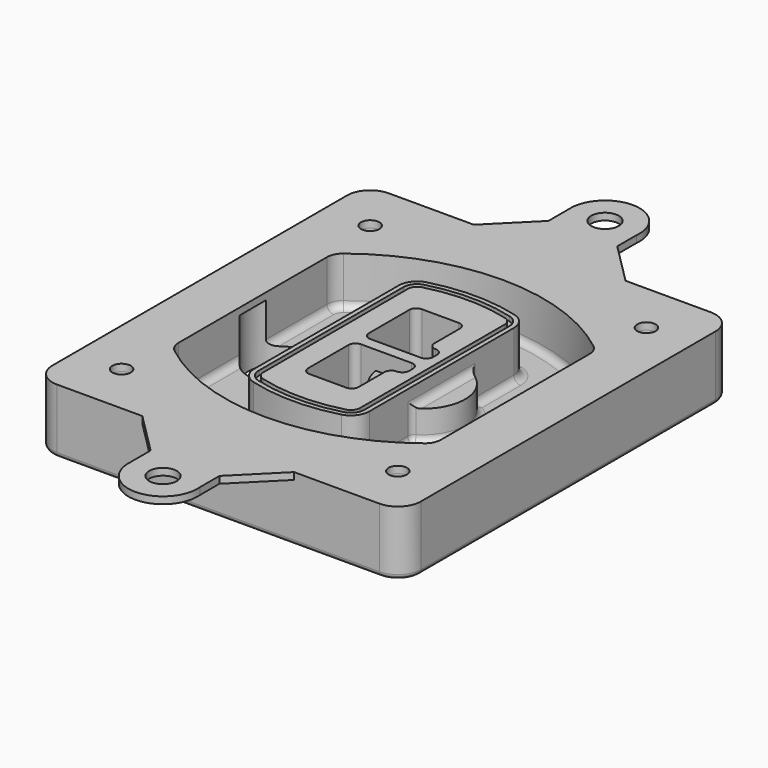
from build123d import *

# Parameters (mm, degrees)
F0_R      = 4
F1_DEPTH  = 25
F2_DEPTH  = 3
F3_DEPTH  = 18
F5_DEPTH  = 21
F6_DEPTH  = 2
F8_DEPTH  = 20
F9_DEPTH  = 16
F10_DEPTH = 25
F7_R      = 6
F7_R_2    = 4
F11_DEPTH = 6
F13_DEPTH = 9
F14_R     = 3
F15_R     = 2
F16_R     = 6
F16_R_2   = 4
F17_DEPTH = 3


with BuildPart() as f1:
    # F0 (on Top) → F1 (new body)
    with BuildSketch(Plane.XY):
        with BuildLine():
            ThreePointArc((-80, -80), (-77.0710678119, -87.0710678119), (-70, -90))
            Line((-70, -90), (70, -90))
            ThreePointArc((70, -90), (77.0710678119, -87.0710678119), (80, -80))
            Line((80, -80), (80, 80))
            ThreePointArc((80, 80), (77.0710678119, 87.0710678119), (70, 90))
            Line((70, 90), (-70, 90))
            ThreePointArc((-70, 90), (-77.0710678119, 87.0710678119), (-80, 80))
            Line((-80, 80), (-80, -80))
        make_face()
        with Locations((-60, -67.5)):
            Circle(F0_R, mode=Mode.SUBTRACT)
        with Locations((60, -67.5)):
            Circle(F0_R, mode=Mode.SUBTRACT)
        with Locations((-60, 67.5)):
            Circle(F0_R, mode=Mode.SUBTRACT)
        with BuildLine():
            ThreePointArc((-64, 40.2934422872), (-62.5820384798, 46.4328484224), (-58.6153846154, 51.3286200352))
            ThreePointArc((-58.6153846154, 51.3286200352), (0, 71.5), (58.6153846154, 51.3286200352))
            ThreePointArc((58.6153846154, 51.3286200352), (62.5820384798, 46.4328484224), (64, 40.2934422872))
            Line((64, 40.2934422872), (64, -40.2934422872))
            ThreePointArc((64, -40.2934422872), (62.5820384798, -46.4328484224), (58.6153846154, -51.3286200352))
            ThreePointArc((58.6153846154, -51.3286200352), (0, -71.5), (-58.6153846154, -51.3286200352))
            ThreePointArc((-58.6153846154, -51.3286200352), (-62.5820384798, -46.4328484224), (-64, -40.2934422872))
            Line((-64, -40.2934422872), (-64, 40.2934422872))
        make_face(mode=Mode.SUBTRACT)
        with Locations((60, 67.5)):
            Circle(F0_R, mode=Mode.SUBTRACT)
        with BuildLine():
            ThreePointArc((58.6153846154, 51.3286200352), (0, 71.5), (-58.6153846154, 51.3286200352))
            ThreePointArc((-58.6153846154, 51.3286200352), (-62.5820384798, 46.4328484224), (-64, 40.2934422872))
            Line((-64, 40.2934422872), (-64, -40.2934422872))
            ThreePointArc((-64, -40.2934422872), (-62.5820384798, -46.4328484224), (-58.6153846154, -51.3286200352))
            ThreePointArc((-58.6153846154, -51.3286200352), (0, -71.5), (58.6153846154, -51.3286200352))
            ThreePointArc((58.6153846154, -51.3286200352), (62.5820384798, -46.4328484224), (64, -40.2934422872))
            Line((64, -40.2934422872), (64, 40.2934422872))
            ThreePointArc((64, 40.2934422872), (62.5820384798, 46.4328484224), (58.6153846154, 51.3286200352))
        make_face()
        with BuildLine():
            Line((-60, -40.2934422872), (-60, 40.2934422872))
            ThreePointArc((-60, 40.2934422872), (-58.9871703427, 44.6787323838), (-56.1538461538, 48.1757121072))
            ThreePointArc((-56.1538461538, 48.1757121072), (0, 67.5), (56.1538461538, 48.1757121072))
            ThreePointArc((56.1538461538, 48.1757121072), (58.9871703427, 44.6787323838), (60, 40.2934422872))
            Line((60, 40.2934422872), (60, -40.2934422872))
            ThreePointArc((60, -40.2934422872), (58.9871703427, -44.6787323838), (56.1538461538, -48.1757121072))
            ThreePointArc((56.1538461538, -48.1757121072), (0, -67.5), (-56.1538461538, -48.1757121072))
            ThreePointArc((-56.1538461538, -48.1757121072), (-58.9871703427, -44.6787323838), (-60, -40.2934422872))
        make_face(mode=Mode.SUBTRACT)
        with BuildLine():
            ThreePointArc((-56.1538461538, 48.1757121072), (-58.9871703427, 44.6787323838), (-60, 40.2934422872))
            Line((-60, 40.2934422872), (-60, -40.2934422872))
            ThreePointArc((-60, -40.2934422872), (-58.9871703427, -44.6787323838), (-56.1538461538, -48.1757121072))
            ThreePointArc((-56.1538461538, -48.1757121072), (0, -67.5), (56.1538461538, -48.1757121072))
            ThreePointArc((56.1538461538, -48.1757121072), (58.9871703427, -44.6787323838), (60, -40.2934422872))
            Line((60, -40.2934422872), (60, 40.2934422872))
            ThreePointArc((60, 40.2934422872), (58.9871703427, 44.6787323838), (56.1538461538, 48.1757121072))
            ThreePointArc((56.1538461538, 48.1757121072), (0, 67.5), (-56.1538461538, 48.1757121072))
        make_face()
        with BuildLine():
            ThreePointArc((54.3076923077, 45.8110311612), (56.2910192399, 43.3631453548), (57, 40.2934422872))
            Line((57, 40.2934422872), (57, -40.2934422872))
            ThreePointArc((57, -40.2934422872), (56.2910192399, -43.3631453548), (54.3076923077, -45.8110311612))
            ThreePointArc((54.3076923077, -45.8110311612), (0, -64.5), (-54.3076923077, -45.8110311612))
            ThreePointArc((-54.3076923077, -45.8110311612), (-56.2910192399, -43.3631453548), (-57, -40.2934422872))
            Line((-57, -40.2934422872), (-57, 40.2934422872))
            ThreePointArc((-57, 40.2934422872), (-56.2910192399, 43.3631453548), (-54.3076923077, 45.8110311612))
            ThreePointArc((-54.3076923077, 45.8110311612), (0, 64.5), (54.3076923077, 45.8110311612))
        make_face(mode=Mode.SUBTRACT)
        with BuildLine():
            Line((57, -40.2934422872), (57, 40.2934422872))
            ThreePointArc((57, 40.2934422872), (56.2910192399, 43.3631453548), (54.3076923077, 45.8110311612))
            ThreePointArc((54.3076923077, 45.8110311612), (0, 64.5), (-54.3076923077, 45.8110311612))
            ThreePointArc((-54.3076923077, 45.8110311612), (-56.2910192399, 43.3631453548), (-57, 40.2934422872))
            Line((-57, 40.2934422872), (-57, -40.2934422872))
            ThreePointArc((-57, -40.2934422872), (-56.2910192399, -43.3631453548), (-54.3076923077, -45.8110311612))
            ThreePointArc((-54.3076923077, -45.8110311612), (0, -64.5), (54.3076923077, -45.8110311612))
            ThreePointArc((54.3076923077, -45.8110311612), (56.2910192399, -43.3631453548), (57, -40.2934422872))
        make_face()
    extrude(amount=-F1_DEPTH)

    # F0 (on Top) → F2 (join)
    with BuildSketch(Plane.XY):
        with BuildLine():
            ThreePointArc((-56.1538461538, 48.1757121072), (-58.9871703427, 44.6787323838), (-60, 40.2934422872))
            Line((-60, 40.2934422872), (-60, -40.2934422872))
            ThreePointArc((-60, -40.2934422872), (-58.9871703427, -44.6787323838), (-56.1538461538, -48.1757121072))
            ThreePointArc((-56.1538461538, -48.1757121072), (0, -67.5), (56.1538461538, -48.1757121072))
            ThreePointArc((56.1538461538, -48.1757121072), (58.9871703427, -44.6787323838), (60, -40.2934422872))
            Line((60, -40.2934422872), (60, 40.2934422872))
            ThreePointArc((60, 40.2934422872), (58.9871703427, 44.6787323838), (56.1538461538, 48.1757121072))
            ThreePointArc((56.1538461538, 48.1757121072), (0, 67.5), (-56.1538461538, 48.1757121072))
        make_face()
        with BuildLine():
            ThreePointArc((54.3076923077, 45.8110311612), (56.2910192399, 43.3631453548), (57, 40.2934422872))
            Line((57, 40.2934422872), (57, -40.2934422872))
            ThreePointArc((57, -40.2934422872), (56.2910192399, -43.3631453548), (54.3076923077, -45.8110311612))
            ThreePointArc((54.3076923077, -45.8110311612), (0, -64.5), (-54.3076923077, -45.8110311612))
            ThreePointArc((-54.3076923077, -45.8110311612), (-56.2910192399, -43.3631453548), (-57, -40.2934422872))
            Line((-57, -40.2934422872), (-57, 40.2934422872))
            ThreePointArc((-57, 40.2934422872), (-56.2910192399, 43.3631453548), (-54.3076923077, 45.8110311612))
            ThreePointArc((-54.3076923077, 45.8110311612), (0, 64.5), (54.3076923077, 45.8110311612))
        make_face(mode=Mode.SUBTRACT)
    extrude(amount=F2_DEPTH)

    # F0 (on Top) → F3 (cut)
    with BuildSketch(Plane.XY):
        with BuildLine():
            Line((57, -40.2934422872), (57, 40.2934422872))
            ThreePointArc((57, 40.2934422872), (56.2910192399, 43.3631453548), (54.3076923077, 45.8110311612))
            ThreePointArc((54.3076923077, 45.8110311612), (0, 64.5), (-54.3076923077, 45.8110311612))
            ThreePointArc((-54.3076923077, 45.8110311612), (-56.2910192399, 43.3631453548), (-57, 40.2934422872))
            Line((-57, 40.2934422872), (-57, -40.2934422872))
            ThreePointArc((-57, -40.2934422872), (-56.2910192399, -43.3631453548), (-54.3076923077, -45.8110311612))
            ThreePointArc((-54.3076923077, -45.8110311612), (0, -64.5), (54.3076923077, -45.8110311612))
            ThreePointArc((54.3076923077, -45.8110311612), (56.2910192399, -43.3631453548), (57, -40.2934422872))
        make_face()
    extrude(amount=-F3_DEPTH, mode=Mode.SUBTRACT)

    # F4 (on face) → F5 (join, through all)
    with BuildSketch(Plane.XY.offset(3)):
        with BuildLine():
            ThreePointArc((-25, -39.2465276821), (-23.3511545998, -44.1109737193), (-19.0842911877, -46.9702398883))
            ThreePointArc((-19.0842911877, -46.9702398883), (0, -49.5), (19.0842911877, -46.9702398883))
            ThreePointArc((19.0842911877, -46.9702398883), (23.3511545998, -44.1109737193), (25, -39.2465276821))
            Line((25, -39.2465276821), (25, 39.2465276821))
            ThreePointArc((25, 39.2465276821), (23.3511545998, 44.1109737193), (19.0842911877, 46.9702398883))
            ThreePointArc((19.0842911877, 46.9702398883), (0, 49.5), (-19.0842911877, 46.9702398883))
            ThreePointArc((-19.0842911877, 46.9702398883), (-23.3511545998, 44.1109737193), (-25, 39.2465276821))
            Line((-25, 39.2465276821), (-25, -39.2465276821))
        make_face()
        with BuildLine():
            ThreePointArc((18.5632183908, 45.0393118368), (21.7633659499, 42.89486221), (23, 39.2465276821))
            Line((23, 39.2465276821), (23, -39.2465276821))
            ThreePointArc((23, -39.2465276821), (21.7633659499, -42.89486221), (18.5632183908, -45.0393118368))
            ThreePointArc((18.5632183908, -45.0393118368), (0, -47.5), (-18.5632183908, -45.0393118368))
            ThreePointArc((-18.5632183908, -45.0393118368), (-21.7633659499, -42.89486221), (-23, -39.2465276821))
            Line((-23, -39.2465276821), (-23, 39.2465276821))
            ThreePointArc((-23, 39.2465276821), (-21.7633659499, 42.89486221), (-18.5632183908, 45.0393118368))
            ThreePointArc((-18.5632183908, 45.0393118368), (0, 47.5), (18.5632183908, 45.0393118368))
        make_face(mode=Mode.SUBTRACT)
        with BuildLine():
            Line((23, -39.2465276821), (23, 39.2465276821))
            ThreePointArc((23, 39.2465276821), (21.7633659499, 42.89486221), (18.5632183908, 45.0393118368))
            ThreePointArc((18.5632183908, 45.0393118368), (0, 47.5), (-18.5632183908, 45.0393118368))
            ThreePointArc((-18.5632183908, 45.0393118368), (-21.7633659499, 42.89486221), (-23, 39.2465276821))
            Line((-23, 39.2465276821), (-23, -39.2465276821))
            ThreePointArc((-23, -39.2465276821), (-21.7633659499, -42.89486221), (-18.5632183908, -45.0393118368))
            ThreePointArc((-18.5632183908, -45.0393118368), (0, -47.5), (18.5632183908, -45.0393118368))
            ThreePointArc((18.5632183908, -45.0393118368), (21.7633659499, -42.89486221), (23, -39.2465276821))
        make_face()
        with BuildLine():
            ThreePointArc((18.0421455939, 43.1083837852), (20.1755772999, 41.6787507007), (21, 39.2465276821))
            Line((21, 39.2465276821), (21, -39.2465276821))
            ThreePointArc((21, -39.2465276821), (20.1755772999, -41.6787507007), (18.0421455939, -43.1083837852))
            ThreePointArc((18.0421455939, -43.1083837852), (0, -45.5), (-18.0421455939, -43.1083837852))
            ThreePointArc((-18.0421455939, -43.1083837852), (-20.1755772999, -41.6787507007), (-21, -39.2465276821))
            Line((-21, -39.2465276821), (-21, 39.2465276821))
            ThreePointArc((-21, 39.2465276821), (-20.1755772999, 41.6787507007), (-18.0421455939, 43.1083837852))
            ThreePointArc((-18.0421455939, 43.1083837852), (0, 45.5), (18.0421455939, 43.1083837852))
        make_face(mode=Mode.SUBTRACT)
        with BuildLine():
            Line((21, -39.2465276821), (21, 39.2465276821))
            ThreePointArc((21, 39.2465276821), (20.1755772999, 41.6787507007), (18.0421455939, 43.1083837852))
            ThreePointArc((18.0421455939, 43.1083837852), (0, 45.5), (-18.0421455939, 43.1083837852))
            ThreePointArc((-18.0421455939, 43.1083837852), (-20.1755772999, 41.6787507007), (-21, 39.2465276821))
            Line((-21, 39.2465276821), (-21, -39.2465276821))
            ThreePointArc((-21, -39.2465276821), (-20.1755772999, -41.6787507007), (-18.0421455939, -43.1083837852))
            ThreePointArc((-18.0421455939, -43.1083837852), (0, -45.5), (18.0421455939, -43.1083837852))
            ThreePointArc((18.0421455939, -43.1083837852), (20.1755772999, -41.6787507007), (21, -39.2465276821))
        make_face()
        with BuildLine():
            Line((-8, -2.5), (14, -2.5))
            ThreePointArc((14, -2.5), (16.1213203436, -3.3786796564), (17, -5.5))
            Line((17, -5.5), (17, -7.5))
            ThreePointArc((17, -7.5), (16.1213203436, -9.6213203436), (14, -10.5))
            ThreePointArc((14, -10.5), (11.8786796564, -11.3786796564), (11, -13.5))
            Line((11, -13.5), (11, -27.5))
            ThreePointArc((11, -27.5), (10.1213203436, -29.6213203436), (8, -30.5))
            Line((8, -30.5), (-8, -30.5))
            ThreePointArc((-8, -30.5), (-10.1213203436, -29.6213203436), (-11, -27.5))
            Line((-11, -27.5), (-11, -5.5))
            ThreePointArc((-11, -5.5), (-10.1213203436, -3.3786796564), (-8, -2.5))
        make_face(mode=Mode.SUBTRACT)
        with BuildLine():
            ThreePointArc((-8, 2.5), (-10.1213203436, 3.3786796564), (-11, 5.5))
            Line((-11, 5.5), (-11, 27.5))
            ThreePointArc((-11, 27.5), (-10.1213203436, 29.6213203436), (-8, 30.5))
            Line((-8, 30.5), (8, 30.5))
            ThreePointArc((8, 30.5), (10.1213203436, 29.6213203436), (11, 27.5))
            Line((11, 27.5), (11, 13.5))
            ThreePointArc((11, 13.5), (11.8786796564, 11.3786796564), (14, 10.5))
            ThreePointArc((14, 10.5), (16.1213203436, 9.6213203436), (17, 7.5))
            Line((17, 7.5), (17, 5.5))
            ThreePointArc((17, 5.5), (16.1213203436, 3.3786796564), (14, 2.5))
            Line((14, 2.5), (-8, 2.5))
        make_face(mode=Mode.SUBTRACT)
    extrude(amount=-F5_DEPTH)

    # F4 (on face) → F6 (cut)
    with BuildSketch(Plane.XY.offset(3)):
        with BuildLine():
            Line((23, -39.2465276821), (23, 39.2465276821))
            ThreePointArc((23, 39.2465276821), (21.7633659499, 42.89486221), (18.5632183908, 45.0393118368))
            ThreePointArc((18.5632183908, 45.0393118368), (0, 47.5), (-18.5632183908, 45.0393118368))
            ThreePointArc((-18.5632183908, 45.0393118368), (-21.7633659499, 42.89486221), (-23, 39.2465276821))
            Line((-23, 39.2465276821), (-23, -39.2465276821))
            ThreePointArc((-23, -39.2465276821), (-21.7633659499, -42.89486221), (-18.5632183908, -45.0393118368))
            ThreePointArc((-18.5632183908, -45.0393118368), (0, -47.5), (18.5632183908, -45.0393118368))
            ThreePointArc((18.5632183908, -45.0393118368), (21.7633659499, -42.89486221), (23, -39.2465276821))
        make_face()
        with BuildLine():
            ThreePointArc((18.0421455939, 43.1083837852), (20.1755772999, 41.6787507007), (21, 39.2465276821))
            Line((21, 39.2465276821), (21, -39.2465276821))
            ThreePointArc((21, -39.2465276821), (20.1755772999, -41.6787507007), (18.0421455939, -43.1083837852))
            ThreePointArc((18.0421455939, -43.1083837852), (0, -45.5), (-18.0421455939, -43.1083837852))
            ThreePointArc((-18.0421455939, -43.1083837852), (-20.1755772999, -41.6787507007), (-21, -39.2465276821))
            Line((-21, -39.2465276821), (-21, 39.2465276821))
            ThreePointArc((-21, 39.2465276821), (-20.1755772999, 41.6787507007), (-18.0421455939, 43.1083837852))
            ThreePointArc((-18.0421455939, 43.1083837852), (0, 45.5), (18.0421455939, 43.1083837852))
        make_face(mode=Mode.SUBTRACT)
    extrude(amount=-F6_DEPTH, mode=Mode.SUBTRACT)

    # F7 (on face) → F8 (join)
    with BuildSketch(Plane(origin=(0, 0, -25), x_dir=(1, 0, 0), z_dir=(0, 0, -1))):
        with BuildLine():
            ThreePointArc((3.28842436, 0), (16.7567035675, 13.4682792075), (30.224982775, 0))
            Line((30.224982775, 0), (35.224982775, 0))
            ThreePointArc((35.224982775, 0), (16.7567035675, 18.4682792075), (-1.71157564, 0))
            Line((-1.71157564, 0), (3.28842436, 0))
        make_face()
        with BuildLine():
            Line((3.28842436, 0), (30.224982775, 0))
            ThreePointArc((30.224982775, 0), (16.7567035675, 13.4682792075), (3.28842436, 0))
        make_face()
        with BuildLine():
            ThreePointArc((3.28842436, 0), (16.7567035675, -13.4682792075), (30.224982775, 0))
            Line((30.224982775, 0), (3.28842436, 0))
        make_face()
        with BuildLine():
            Line((35.224982775, 0), (30.224982775, 0))
            ThreePointArc((30.224982775, 0), (16.7567035675, -13.4682792075), (3.28842436, 0))
            Line((3.28842436, 0), (-1.71157564, 0))
            ThreePointArc((-1.71157564, 0), (16.7567035675, -18.4682792075), (35.224982775, 0))
        make_face()
    extrude(amount=-F8_DEPTH)

    # F7 (on face) → F9 (cut)
    with BuildSketch(Plane(origin=(0, 0, -25), x_dir=(1, 0, 0), z_dir=(0, 0, -1))):
        with BuildLine():
            Line((3.28842436, 0), (30.224982775, 0))
            ThreePointArc((30.224982775, 0), (16.7567035675, 13.4682792075), (3.28842436, 0))
        make_face()
        with BuildLine():
            ThreePointArc((3.28842436, 0), (16.7567035675, -13.4682792075), (30.224982775, 0))
            Line((30.224982775, 0), (3.28842436, 0))
        make_face()
    extrude(amount=-F9_DEPTH, mode=Mode.SUBTRACT)

    # F7 (on face) → F10 (cut)
    with BuildSketch(Plane(origin=(0, 0, -25), x_dir=(1, 0, 0), z_dir=(0, 0, -1))):
        with BuildLine():
            Line((-59.0318229325, 0), (-32.0952645175, 0))
            ThreePointArc((-32.0952645175, 0), (-45.563543725, 13.4682792075), (-59.0318229325, 0))
        make_face()
        with BuildLine():
            ThreePointArc((-59.0318229325, 0), (-45.563543725, -13.4682792075), (-32.0952645175, 0))
            Line((-32.0952645175, 0), (-59.0318229325, 0))
        make_face()
    extrude(amount=-F10_DEPTH, mode=Mode.SUBTRACT)

    # F7 (on face) → F11 (cut)
    with BuildSketch(Plane(origin=(0, 0, -25), x_dir=(1, 0, 0), z_dir=(0, 0, -1))):
        with Locations((60, -67.5)):
            Circle(F7_R)
        with Locations((60, -67.5)):
            Circle(F7_R_2, mode=Mode.SUBTRACT)
        with Locations((60, -67.5)):
            Circle(F7_R)
        with Locations((60, -67.5)):
            Circle(F7_R_2, mode=Mode.SUBTRACT)
        with Locations((-60, -67.5)):
            Circle(F7_R)
        with Locations((-60, -67.5)):
            Circle(F7_R_2, mode=Mode.SUBTRACT)
        with Locations((-60, -67.5)):
            Circle(F7_R)
        with Locations((-60, -67.5)):
            Circle(F7_R_2, mode=Mode.SUBTRACT)
        with Locations((-60, 67.5)):
            Circle(F7_R)
        with Locations((-60, 67.5)):
            Circle(F7_R_2, mode=Mode.SUBTRACT)
        with Locations((-60, 67.5)):
            Circle(F7_R)
        with Locations((-60, 67.5)):
            Circle(F7_R_2, mode=Mode.SUBTRACT)
        with Locations((60, 67.5)):
            Circle(F7_R)
        with Locations((60, 67.5)):
            Circle(F7_R_2, mode=Mode.SUBTRACT)
        with Locations((60, 67.5)):
            Circle(F7_R)
        with Locations((60, 67.5)):
            Circle(F7_R_2, mode=Mode.SUBTRACT)
    extrude(amount=-F11_DEPTH, mode=Mode.SUBTRACT)

    # F12 (on face) → F13 (cut, through all)
    with BuildSketch(Plane(origin=(0, 0, -9), x_dir=(1, 0, 0), z_dir=(0, 0, -1))):
        with BuildLine():
            Line((11, 13.5), (11, 17.5481537753))
            ThreePointArc((11, 17.5481537753), (2.5696536419, 11.8239143813), (-1.5415842455, 2.5))
            Line((-1.5415842455, 2.5), (3.5224848595, 2.5))
            ThreePointArc((3.5224848595, 2.5), (6.1857188154, 8.3455872281), (11.2536447004, 12.2927168648))
            ThreePointArc((11.2536447004, 12.2927168648), (11.0640958889, 12.8831798879), (11, 13.5))
        make_face()
        with BuildLine():
            ThreePointArc((11.2536447004, -12.2927168648), (6.1857188154, -8.3455872281), (3.5224848595, -2.5))
            Line((3.5224848595, -2.5), (-1.5415842455, -2.5))
            ThreePointArc((-1.5415842455, -2.5), (2.5696536419, -11.8239143813), (11, -17.5481537753))
            Line((11, -17.5481537753), (11, -13.5))
            ThreePointArc((11, -13.5), (11.0640958889, -12.8831798879), (11.2536447004, -12.2927168648))
        make_face()
        with BuildLine():
            ThreePointArc((11.2536447004, 12.2927168648), (6.1857188154, 8.3455872281), (3.5224848595, 2.5))
            Line((3.5224848595, 2.5), (14, 2.5))
            ThreePointArc((14, 2.5), (16.1213203436, 3.3786796564), (17, 5.5))
            Line((17, 5.5), (17, 7.5))
            ThreePointArc((17, 7.5), (16.1213203436, 9.6213203436), (14, 10.5))
            ThreePointArc((14, 10.5), (12.3601599782, 10.9878446101), (11.2536447004, 12.2927168648))
        make_face()
        with BuildLine():
            Line((14, -2.5), (3.5224848595, -2.5))
            ThreePointArc((3.5224848595, -2.5), (6.1857188154, -8.3455872281), (11.2536447004, -12.2927168648))
            ThreePointArc((11.2536447004, -12.2927168648), (12.3601599782, -10.9878446101), (14, -10.5))
            ThreePointArc((14, -10.5), (16.1213203436, -9.6213203436), (17, -7.5))
            Line((17, -7.5), (17, -5.5))
            ThreePointArc((17, -5.5), (16.1213203436, -3.3786796564), (14, -2.5))
        make_face()
    extrude(amount=F13_DEPTH, mode=Mode.SUBTRACT)

    # F14
    f14_edges = [f1.edges().sort_by_distance(p)[0] for p in [
        (-57, -23.703476, -18),
        (-57, 23.703476, -18),
        (25, 0, -5),
        (25, 16.526506, -11.5),
        (25, -16.526506, -11.5),
        (25, -27.886517, -18),
        (35.224983, 0, -18),
    ]]
    fillet(f14_edges, radius=F14_R)

    # F15
    f15_edges = [f1.edges().sort_by_distance(p)[0] for p in [
        (0, -90, -25),
    ]]
    fillet(f15_edges, radius=F15_R)

    # F16 (on face) → F17 (join, through all)
    with BuildSketch(Plane.XY):
        with BuildLine():
            Line((32.9212083915, -90), (-32.9692318931, -90))
            Line((-32.9692318931, -90), (-14.9692318931, -108))
            Line((-14.9692318931, -108), (-14.9692318931, -119.0397414244))
            ThreePointArc((-14.9692318931, -119.0397414244), (0.2885855574, -134.9972236889), (14.9212083915, -118.4645716764))
            Line((14.9212083915, -118.4645716764), (14.9212083915, -108))
            Line((14.9212083915, -108), (32.9212083915, -90))
        make_face()
        with Locations((0, -120)):
            Circle(F16_R, mode=Mode.SUBTRACT)
        with BuildLine():
            Line((32.9212083915, 90), (-32.9692318931, 90))
            Line((-32.9692318931, 90), (-70, 90))
            ThreePointArc((-70, 90), (-77.0710678119, 87.0710678119), (-80, 80))
            Line((-80, 80), (-80, -80))
            ThreePointArc((-80, -80), (-77.0710678119, -87.0710678119), (-70, -90))
            Line((-70, -90), (-32.9692318931, -90))
            Line((-32.9692318931, -90), (32.9212083915, -90))
            Line((32.9212083915, -90), (70, -90))
            ThreePointArc((70, -90), (77.0710678119, -87.0710678119), (80, -80))
            Line((80, -80), (80, 80))
            ThreePointArc((80, 80), (77.0710678119, 87.0710678119), (70, 90))
            Line((70, 90), (32.9212083915, 90))
        make_face()
        with Locations((-60, -67.5)):
            Circle(F16_R_2, mode=Mode.SUBTRACT)
        with Locations((60, -67.5)):
            Circle(F16_R_2, mode=Mode.SUBTRACT)
        with Locations((-60, 67.5)):
            Circle(F16_R_2, mode=Mode.SUBTRACT)
        with BuildLine():
            ThreePointArc((-60, 40.2934422872), (-58.9871703427, 44.6787323838), (-56.1538461538, 48.1757121072))
            ThreePointArc((-56.1538461538, 48.1757121072), (0, 67.5), (56.1538461538, 48.1757121072))
            ThreePointArc((56.1538461538, 48.1757121072), (58.9871703427, 44.6787323838), (60, 40.2934422872))
            Line((60, 40.2934422872), (60, -40.2934422872))
            ThreePointArc((60, -40.2934422872), (58.9871703427, -44.6787323838), (56.1538461538, -48.1757121072))
            ThreePointArc((56.1538461538, -48.1757121072), (0, -67.5), (-56.1538461538, -48.1757121072))
            ThreePointArc((-56.1538461538, -48.1757121072), (-58.9871703427, -44.6787323838), (-60, -40.2934422872))
            Line((-60, -40.2934422872), (-60, 40.2934422872))
        make_face(mode=Mode.SUBTRACT)
        with Locations((60, 67.5)):
            Circle(F16_R_2, mode=Mode.SUBTRACT)
        with BuildLine():
            Line((-14.9692318931, 108), (-32.9692318931, 90))
            Line((-32.9692318931, 90), (32.9212083915, 90))
            Line((32.9212083915, 90), (14.9212083915, 108))
            Line((14.9212083915, 108), (14.9212083915, 118.4645716764))
            ThreePointArc((14.9212083915, 118.4645716764), (0.2885855574, 134.9972236889), (-14.9692318931, 119.0397414244))
            Line((-14.9692318931, 119.0397414244), (-14.9692318931, 108))
        make_face()
        with Locations((0, 120)):
            Circle(F16_R, mode=Mode.SUBTRACT)
    extrude(amount=F17_DEPTH)


solid = f1.part
